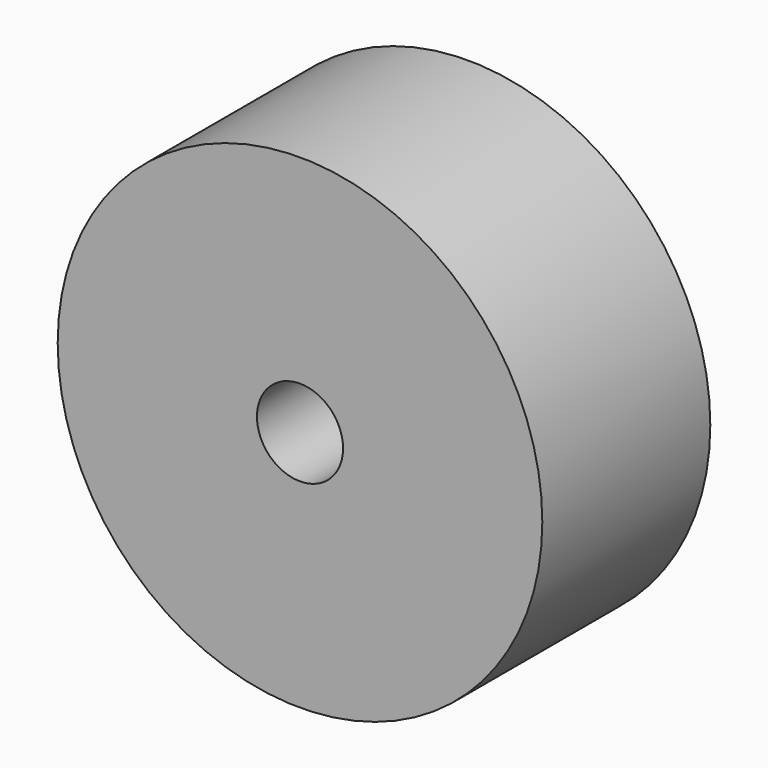
from build123d import *

# Parameters (mm, degrees)
F1_R     = 29.308537
F1_R_2   = 5.207841
F2_DEPTH = 25.4


with BuildPart() as f2:
    # F1 (on face) → F2 (new body)
    with BuildSketch(Plane.XZ):
        Circle(F1_R)
        Circle(F1_R_2, mode=Mode.SUBTRACT)
    extrude(amount=F2_DEPTH)


solid = f2.part
